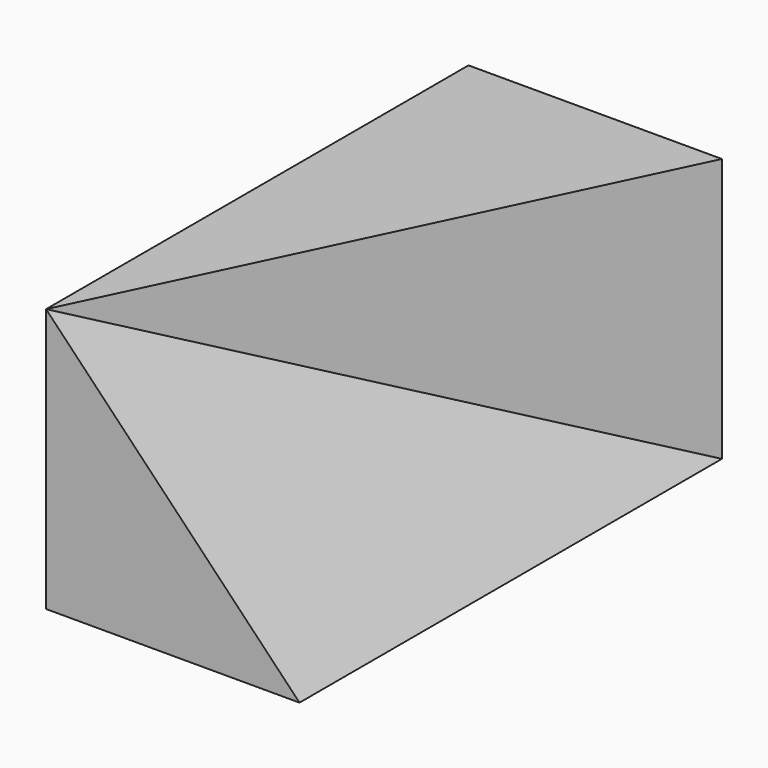
from build123d import *

# Parameters (mm, degrees)
F1_DEPTH = 100


with BuildPart() as f1:
    # F0 (on Front) → F1 (new body)
    with BuildSketch(Plane.XZ):
        Polygon((0, 50), (0, 0), (48, 0), align=None)
    extrude(amount=F1_DEPTH)

    # F0 (on Front) → F2 section 0
    with BuildSketch(Plane.XZ, mode=Mode.PRIVATE) as f2_s0:
        Polygon((0, 50), (48, 0), (48, 50), align=None)
    loft([f2_s0.sketch, Vertex(0, -100, 50)])


solid = f1.part
